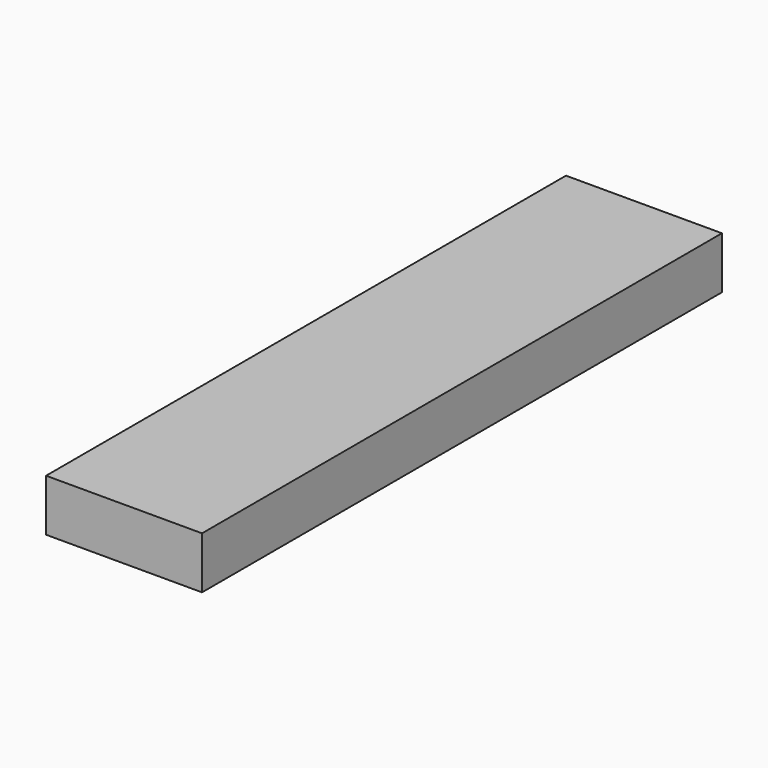
from build123d import *

# Parameters (mm, degrees)
F0_W     = 12
F0_H     = 50
F0_W_2   = 1.925
F0_H_2   = 11.6
F1_DEPTH = 4
F2_ANGLE = 180


with BuildPart() as f1:
    # F0 (on Top) → F1 (new body)
    with BuildSketch(Plane.XY):
        Rectangle(F0_W, F0_H)
        Polygon((1.925, -10), (0, -10), (-1.925, -10), (-1.925, 1.6), (0, 1.6), (1.925, 1.6), align=None, mode=Mode.SUBTRACT)
        with Locations((-0.9625, -4.2)):
            Rectangle(F0_W_2, F0_H_2)
        with Locations((0.9625, -4.2)):
            Rectangle(F0_W_2, F0_H_2)
    extrude(amount=F1_DEPTH)

    # F0 (on Top) → F2 (revolve, cut)
    with BuildSketch(Plane.XY):
        with Locations((-0.9625, -4.2)):
            Rectangle(F0_W_2, F0_H_2)
    revolve(axis=Axis((0, -4.2, 0), (0, 1, 0)), revolution_arc=F2_ANGLE, mode=Mode.SUBTRACT)


solid = f1.part
